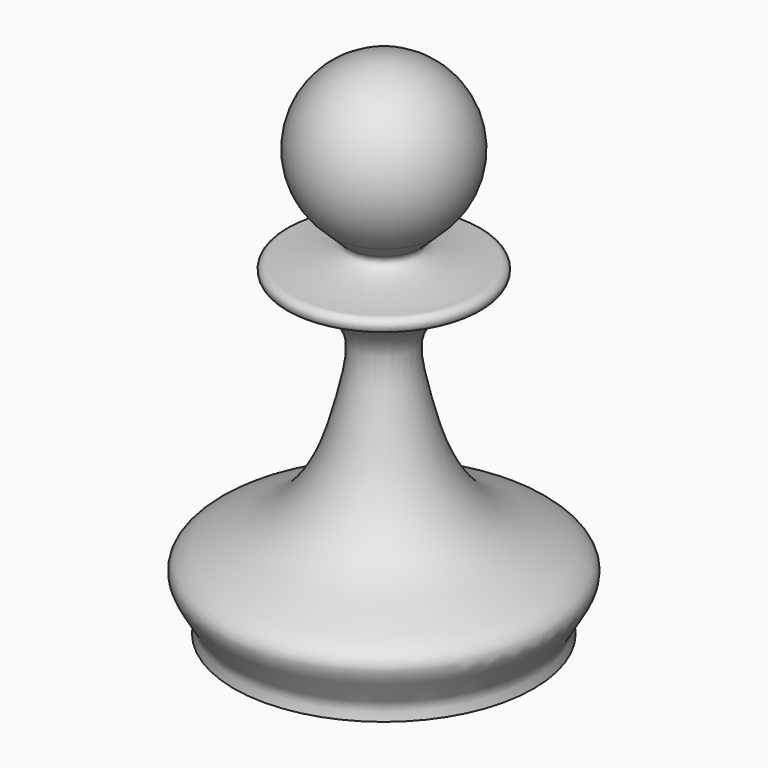
from build123d import *


with BuildPart() as f2:
    # F1 (on Front) → F2 (revolve)
    with BuildSketch(Plane.XZ):
        with BuildLine():
            Line((0, 0), (0, 46.3335300862))
            ThreePointArc((0, 46.3335300862), (-6.8963212218, 41.4942768756), (-4.6911471959, 33.3631745182))
            add(Edge.make_bspline(
                [(-3.412524363, 32.1283354899), (-3.838470258, 32.540262974), (-4.2652013009, 32.9512470341), (-4.6911471959, 33.3631745182)],
                knots=[0, 0, 0, 0, 1.7775555617, 1.7775555617, 1.7775555617, 1.7775555617], degree=3))
            add(Edge.make_bspline(
                [(-13.7045149625, 0), (-13.5780578491, 0.4570755621), (-13.2489588905, 1.6465941859), (-16.8039340078, 5.5035310533), (-12.3209784387, 7.6243053112), (-8.1685399642, 9.171858407), (-5.1895242193, 13.1595199936), (-3.919131971, 16.8696351399), (-3.1473851401, 19.9907372258), (-2.4061505927, 23.4505808099), (-3.3887754576, 25.5402685911), (-5.2661691267, 27.1494828273), (-7.3213779347, 28.2537950118), (-8.5485109819, 28.6585075296), (-8.9205105211, 28.8812825425), (-9.0473642938, 29.2488642762), (-8.9884411743, 29.6192138985), (-8.5857980164, 29.9398498617), (-8.1330863126, 29.9080464981), (-5.9456097906, 30.1718341166), (-4.5179721571, 30.4068829839), (-3.5413166607, 30.7943146915), (-3.1536038452, 31.0760019173), (-2.8972185126, 31.4461974929), (-3.0528998111, 31.8602606427), (-3.2898167102, 32.0368655525), (-3.412524363, 32.1283354899)],
                knots=[0, 0, 0, 0, 0.0411562909, 0.1071073987, 0.1699614683, 0.241651481, 0.313671675, 0.3787501021, 0.4385975137, 0.4994455349, 0.547840714, 0.5994846267, 0.6506164765, 0.6872751687, 0.7077678068, 0.7272847404, 0.7470455664, 0.7690073454, 0.7909287497, 0.8394176773, 0.8811461845, 0.913819914, 0.9364590461, 0.9572900364, 0.9778789972, 1, 1, 1, 1], degree=3))
            Line((-13.7045149625, 0), (0, 0))
        make_face()
    revolve(axis=Axis((0, 0, 23.1730977539), (0, 0, 1)))


solid = f2.part
